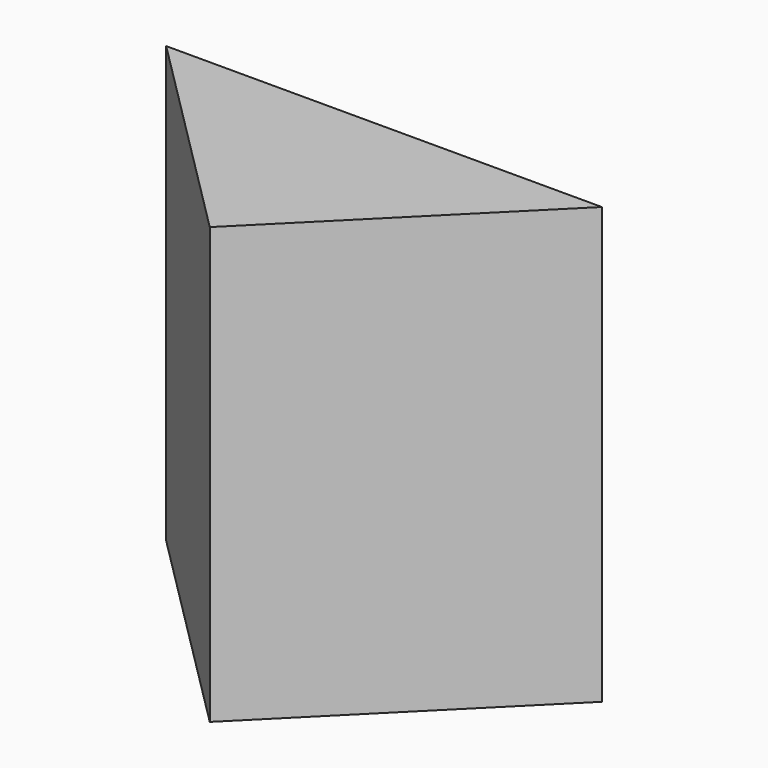
from build123d import *

# Parameters (mm, degrees)
F1_DEPTH = 25.4
F2_DEPTH = 25.4
F3_DEPTH = 25.4
F4_DEPTH = 25.4
F6_DEPTH = 50.8
F8_DEPTH = 50.8


with BuildPart() as f1:
    # F0 (on Front) → F1 (new body)
    with BuildSketch(Plane.XZ):
        Polygon((-25.4, 25.4), (-25.4, -25.4), (0, 0), align=None)
    extrude(amount=F1_DEPTH)

    # F0 (on Front) → F2 (join)
    with BuildSketch(Plane.XZ):
        Polygon((0, 0), (25.4, 25.4), (-25.4, 25.4), align=None)
    extrude(amount=F2_DEPTH)

    # F0 (on Front) → F3 (join)
    with BuildSketch(Plane.XZ):
        Polygon((0, 0), (25.4, -25.4), (25.4, 25.4), align=None)
    extrude(amount=F3_DEPTH)

    # F0 (on Front) → F4 (join)
    with BuildSketch(Plane.XZ):
        Polygon((-25.4, -25.4), (25.4, -25.4), (0, 0), align=None)
    extrude(amount=F4_DEPTH)

    # F5 (on face) → F6 (cut)
    with BuildSketch(Plane(origin=(0, 0, -25.4), x_dir=(1, 0, 0), z_dir=(0, 0, -1))):
        Polygon((-25.4, 0), (0, 25.4), (-25.4, 25.4), align=None)
    extrude(amount=-F6_DEPTH, mode=Mode.SUBTRACT)

    # F7 (on face) → F8 (cut)
    with BuildSketch(Plane.XY.offset(25.4)):
        Polygon((25.4, 0), (0, -25.4), (25.4, -25.4), align=None)
    extrude(amount=-F8_DEPTH, mode=Mode.SUBTRACT)


solid = f1.part
